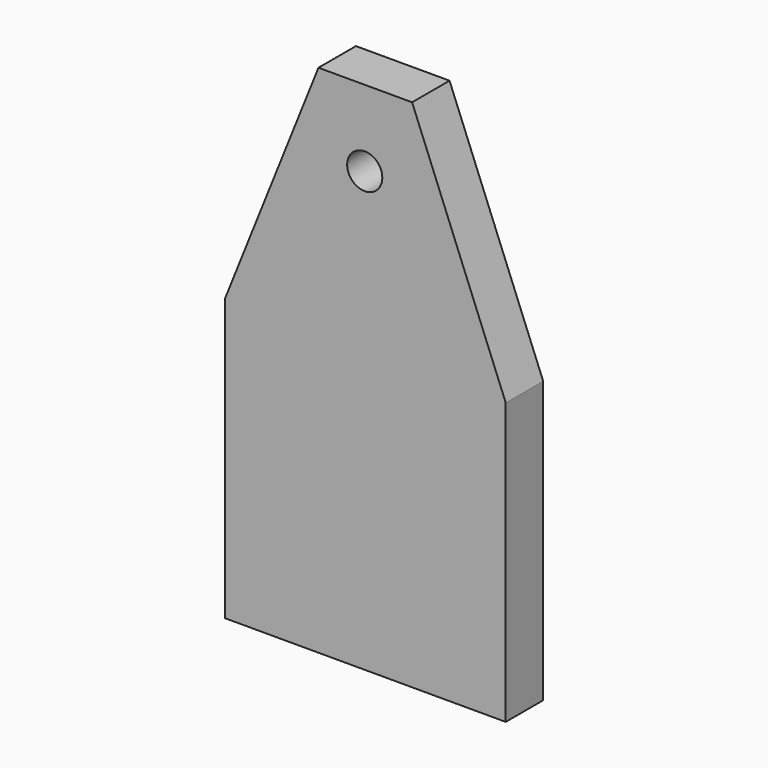
from build123d import *

# Parameters (mm, degrees)
F0_W       = 152.4
F0_H       = 279.4
F0_R       = 9.525
F1_DEPTH   = 25.4
F2_SIZE2   = 50.8
F2_SIZE    = 127
F2_2_SIZE2 = 50.8
F2_2_SIZE  = 127


with BuildPart() as f1:
    # F0 (on Front) → F1 (new body)
    with BuildSketch(Plane.XZ):
        with Locations((0.297114253, 69.4026991844)):
            Rectangle(F0_W, F0_H)
        with Locations((0, 167.8276991844)):
            Circle(F0_R, mode=Mode.SUBTRACT)
    extrude(amount=F1_DEPTH)

    # F2
    f2_edges = [f1.edges().sort_by_distance(p)[0] for p in [
        (-75.902886, -12.7, 209.102699),
    ]]
    f2_side = f1.faces().sort_by_distance((-75.902886, -12.7, 69.402699))[0]
    chamfer(f2_edges, length=F2_SIZE, length2=F2_SIZE2, reference=f2_side)

    # F2#2
    f2_2_edges = [f1.edges().sort_by_distance(p)[0] for p in [
        (76.497114, -12.7, 209.102699),
    ]]
    f2_2_side = f1.faces().sort_by_distance((76.497114, -12.7, 69.402699))[0]
    chamfer(f2_2_edges, length=F2_2_SIZE, length2=F2_2_SIZE2, reference=f2_2_side)


solid = f1.part
